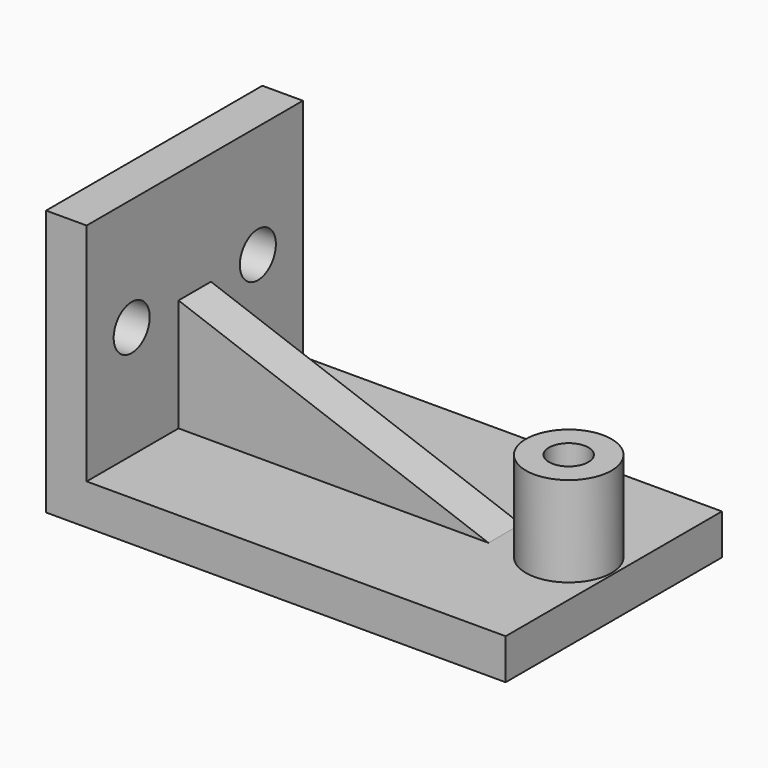
from build123d import *

# Parameters (mm, degrees)
SKETCH_R        = 0.875
PAD_DEPTH       = 1.8
SKETCH001_W     = 1.8
SKETCH001_H     = 12
PAD001_DEPTH    = 10
SKETCH002_R     = 1
POCKET_DEPTH    = 1.801
SKETCH003_W     = 13.757845
SKETCH003_H     = 1.8
PAD002_DEPTH    = 5
POCKET001_DEPTH = 1.8
SKETCH005_R     = 1.9
SKETCH005_R_2   = 0.875
PAD003_DEPTH    = 4


with BuildPart() as part:
    # Sketch → Pad (new body)
    with BuildSketch(Plane.XY):
        Polygon((-18.4, 6), (2, 6), (2, 0), (2, -6), (-18.4, -6), align=None)
        Circle(SKETCH_R, mode=Mode.SUBTRACT)
    extrude(amount=PAD_DEPTH)

    # Sketch001 → Pad001 (new body)
    with BuildSketch(Plane.XY.offset(1.8)):
        with Locations((-17.5, 0)):
            Rectangle(SKETCH001_W, SKETCH001_H)
    extrude(amount=PAD001_DEPTH)

    # Sketch002 → Pocket (cut, through all)
    with BuildSketch(Plane.YZ.offset(-16.6)):
        with Locations((-3.5, 6.8)):
            Circle(SKETCH002_R)
        with Locations((3.5, 6.8)):
            Circle(SKETCH002_R)
    extrude(amount=-POCKET_DEPTH, mode=Mode.SUBTRACT)

    # Sketch003 → Pad002 (new body)
    with BuildSketch(Plane.XY.offset(1.8)):
        with Locations((-9.7210775, 0)):
            Rectangle(SKETCH003_W, SKETCH003_H)
    extrude(amount=PAD002_DEPTH)

    # Sketch004 → Pocket001 (cut)
    with BuildSketch(Plane.XZ.offset(0.9)):
        Polygon((-16.6, 6.8), (-2.842155, 1.8), (-2.842155, 6.8), align=None)
    extrude(amount=-POCKET001_DEPTH, mode=Mode.SUBTRACT)

    # Sketch005 → Pad003 (new body)
    with BuildSketch(Plane.XY.offset(1.8)):
        Circle(SKETCH005_R)
        Circle(SKETCH005_R_2, mode=Mode.SUBTRACT)
    extrude(amount=PAD003_DEPTH)


solid = part.part
